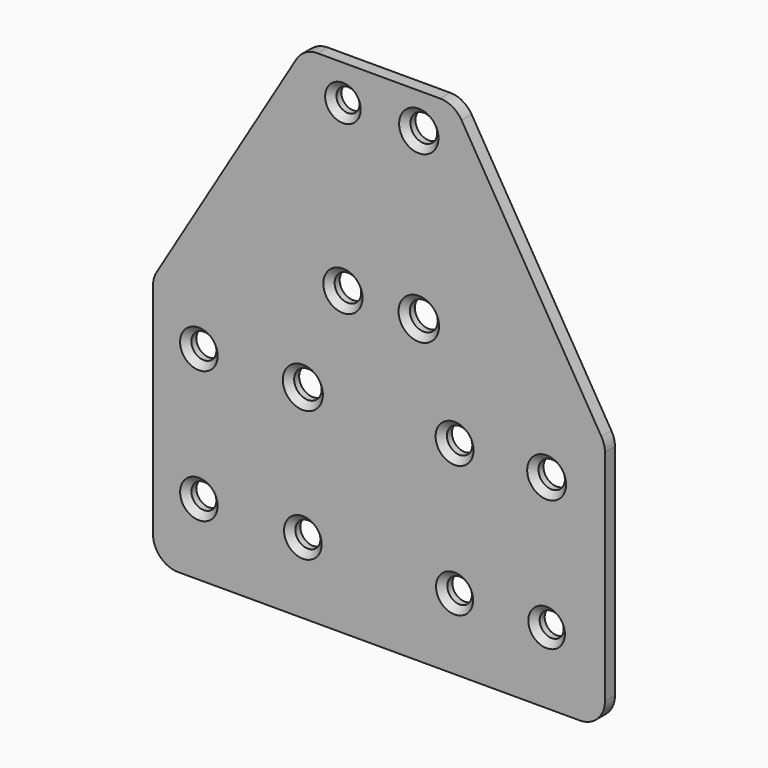
from build123d import *

# Parameters (mm, degrees)
F0_R     = 12.6166
F0_R_2   = 12.680328
F0_R_3   = 12.670482
F0_R_4   = 13.894295
F0_R_5   = 12.421427
F0_R_6   = 12.153085
F0_R_7   = 12.859931
F0_R_8   = 13.359293
F0_R_9   = 13.464332
F0_R_10  = 11.644387
F0_R_11  = 14.14438
F0_R_12  = 13.545297
F1_DEPTH = 12.7
F2_R     = 25.4
F3_SIZE  = 6.35


with BuildPart() as f1:
    # F0 (on Front) → F1 (new body)
    with BuildSketch(Plane.XZ):
        Polygon((-228.6, -152.085962), (228.6, -152.085962), (228.6, 101.914038), (76.2, 355.914038), (-76.2, 355.914038), (-228.6, 101.914038), align=None)
        with Locations((-182.22025, -80.14226)):
            Circle(F0_R, mode=Mode.SUBTRACT)
        with Locations((-77.011786, -80.14226)):
            Circle(F0_R_2, mode=Mode.SUBTRACT)
        with Locations((-182.22025, 53.524222)):
            Circle(F0_R_3, mode=Mode.SUBTRACT)
        with Locations((-77.011786, 53.524222)):
            Circle(F0_R_4, mode=Mode.SUBTRACT)
        with Locations((76.489076, -80.14226)):
            Circle(F0_R_5, mode=Mode.SUBTRACT)
        with Locations((169.624433, -80.14226)):
            Circle(F0_R_6, mode=Mode.SUBTRACT)
        with Locations((76.489076, 53.524222)):
            Circle(F0_R_7, mode=Mode.SUBTRACT)
        with Locations((169.624433, 53.524222)):
            Circle(F0_R_8, mode=Mode.SUBTRACT)
        with Locations((-36.480658, 152.696133)):
            Circle(F0_R_9, mode=Mode.SUBTRACT)
        with Locations((-36.480658, 319.994807)):
            Circle(F0_R_10, mode=Mode.SUBTRACT)
        with Locations((40.269773, 152.696133)):
            Circle(F0_R_11, mode=Mode.SUBTRACT)
        with Locations((40.269773, 319.994807)):
            Circle(F0_R_12, mode=Mode.SUBTRACT)
    extrude(amount=F1_DEPTH)

    # F2
    f2_edges = [f1.edges().sort_by_distance(p)[0] for p in [
        (76.2, -6.35, 355.914038),
        (-76.2, -6.35, 355.914038),
        (228.6, -6.35, 101.914038),
        (228.6, -6.35, -152.085962),
        (-228.6, -6.35, -152.085962),
        (-228.6, -6.35, 101.914038),
    ]]
    fillet(f2_edges, radius=F2_R)

    # F3
    f3_edges = [f1.edges().sort_by_distance(p)[0] for p in [
        (26.724477, -12.7, 319.994807),
        (-48.125045, -12.7, 319.994807),
        (-49.94499, -12.7, 152.696133),
        (26.125393, -12.7, 152.696133),
        (-90.906081, -12.7, 53.524222),
        (-194.890732, -12.7, 53.524222),
        (63.629145, -12.7, 53.524222),
        (156.26514, -12.7, 53.524222),
        (157.471348, -12.7, -80.14226),
        (64.067649, -12.7, -80.14226),
        (-89.692114, -12.7, -80.14226),
        (-194.83685, -12.7, -80.14226),
    ]]
    chamfer(f3_edges, length=F3_SIZE)


solid = f1.part
